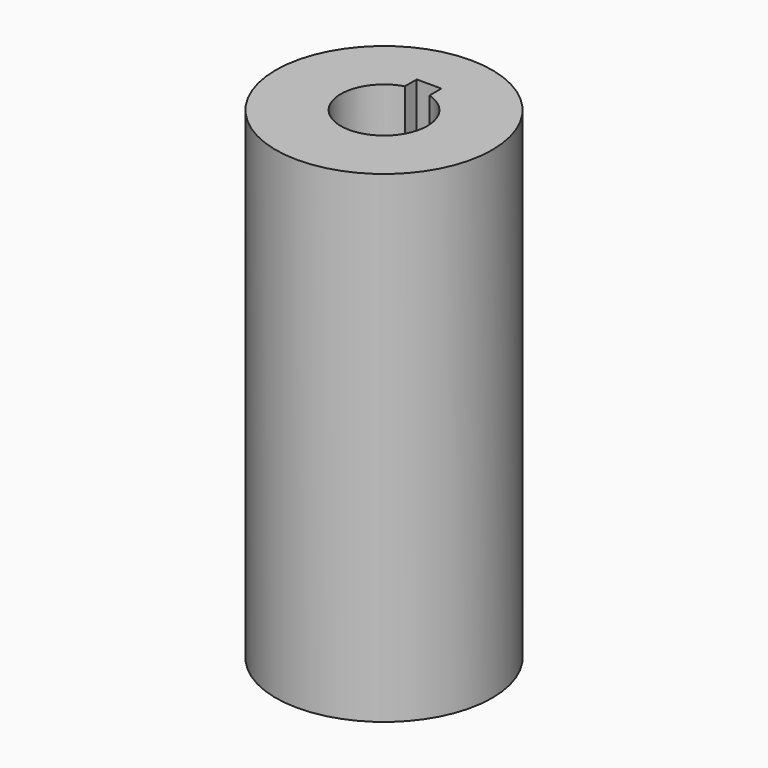
from build123d import *

# Parameters (mm, degrees)
F0_R     = 11.1125
F0_R_2   = 4.445
F1_DEPTH = 25.4
F2_R     = 11.1125
F3_DEPTH = 11.43
F4_R     = 11.1125
F5_DEPTH = 12.7


with BuildPart() as f1:
    # F0 (on Top) → F1 (new body)
    with BuildSketch(Plane.XY):
        Circle(F0_R)
        Circle(F0_R_2, mode=Mode.SUBTRACT)
    extrude(amount=F1_DEPTH)

    # F2 (on face) → F3 (join)
    with BuildSketch(Plane(origin=(0, 0, 0), x_dir=(1, 0, 0), z_dir=(0, 0, -1))):
        Circle(F2_R)
        with BuildLine():
            ThreePointArc((-3.302, -2.975705), (0, 4.445), (3.302, -2.975705))
            Line((3.302, -2.975705), (-3.302, -2.975705))
        make_face(mode=Mode.SUBTRACT)
    extrude(amount=F3_DEPTH)

    # F4 (on face) → F5 (join)
    with BuildSketch(Plane.XY.offset(25.4)):
        Circle(F4_R)
        with BuildLine():
            ThreePointArc((4.445, 0), (-2.656396, -3.563929), (-1.27, 4.259709))
            Line((-1.27, 4.259709), (-1.27, 5.783709))
            Line((-1.27, 5.783709), (1.27, 5.783709))
            Line((1.27, 5.783709), (1.27, 4.259709))
            ThreePointArc((1.27, 4.259709), (3.563929, 2.656396), (4.445, 0))
        make_face(mode=Mode.SUBTRACT)
    extrude(amount=F5_DEPTH)


solid = f1.part
